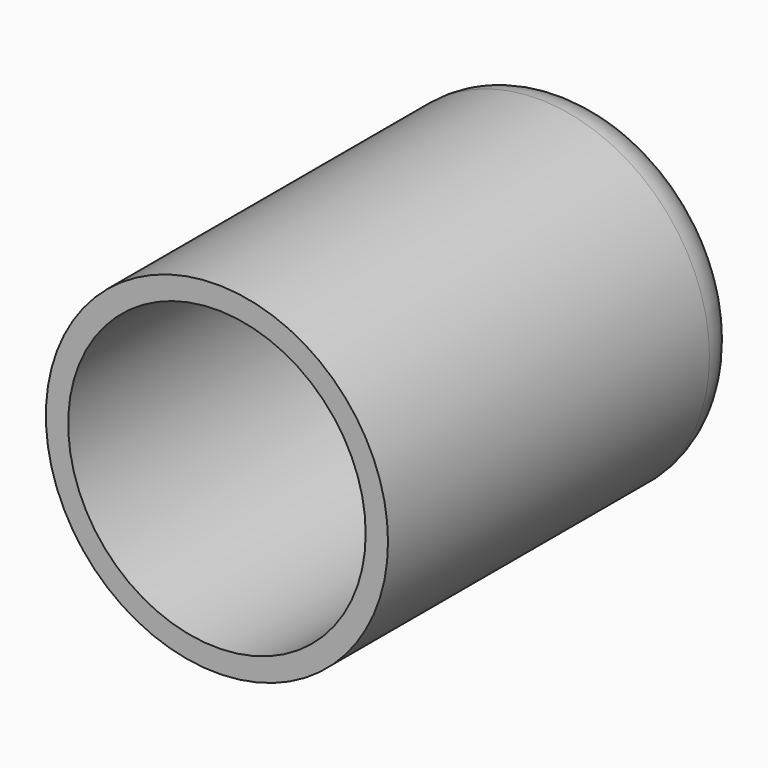
from build123d import *

# Parameters (mm, degrees)
F0_R     = 19.4658001659
F1_DEPTH = 25.4
F2_T     = -2.54
F3_DEPTH = 25.4
F4_DEPTH = 25.4
F5_R     = 5.08


with BuildPart() as f1:
    # F0 (on Front) → F1 (new body)
    with BuildSketch(Plane.XZ):
        with Locations((-37.8019884229, 38.6502295732)):
            Circle(F0_R)
    extrude(amount=F1_DEPTH)

    # F2
    f2_openings = [f1.faces().sort_by_distance(p)[0] for p in [
        (-37.801988, -25.4, 38.65023),
    ]]
    offset(amount=F2_T, openings=f2_openings)

    # F3 (add): a face of the model
    f3_faces = [f1.faces().sort_by_distance(p)[0] for p in [
        (-56.7172126168, -25.4, 38.6502295732),
    ]]
    extrude(f3_faces, amount=-F3_DEPTH)

    # F4 (add): a face of the model
    f4_faces = [f1.faces().sort_by_distance(p)[0] for p in [
        (-56.7172126168, -25.4, 38.6502295732),
    ]]
    extrude(f4_faces, amount=F4_DEPTH)

    # F5
    f5_edges = [f1.edges().sort_by_distance(p)[0] for p in [
        (-57.267789, 0, 38.65023),
    ]]
    fillet(f5_edges, radius=F5_R)


solid = f1.part
